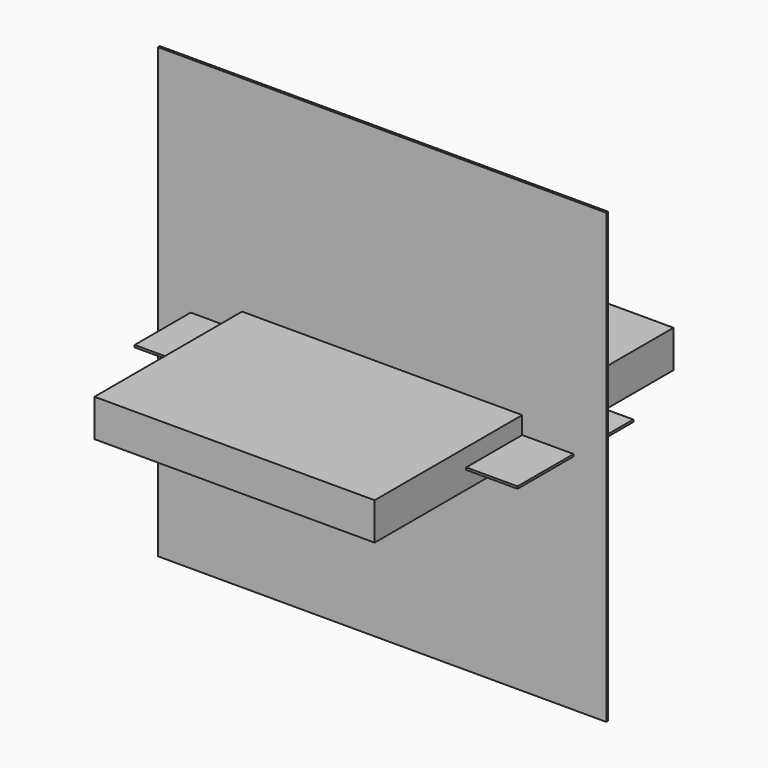
from build123d import *

# Parameters (mm, degrees)
F0_W     = 2082.8
F0_H     = 787.4
F1_DEPTH = 5.953125
F2_W     = 1524
F2_H     = 2032
F3_DEPTH = 101.6
F4_W     = 2438.4
F4_H     = 2438.4
F5_DEPTH = 12.7


with BuildPart() as f1:
    # F0 (on Top) → F1 (new body, symmetric)
    with BuildSketch(Plane.XY):
        Rectangle(F0_W, F0_H)
    extrude(amount=F1_DEPTH, both=True)


with BuildPart() as f3:
    # F2 (on Top) → F3 (new body, symmetric)
    with BuildSketch(Plane.XY):
        Rectangle(F2_W, F2_H)
    extrude(amount=F3_DEPTH, both=True)


with BuildPart() as f5:
    # F4 (on Front) → F5 (new body)
    with BuildSketch(Plane.XZ):
        Rectangle(F4_W, F4_H)
    extrude(amount=F5_DEPTH)


solid = Compound([f1.part, f3.part, f5.part])
